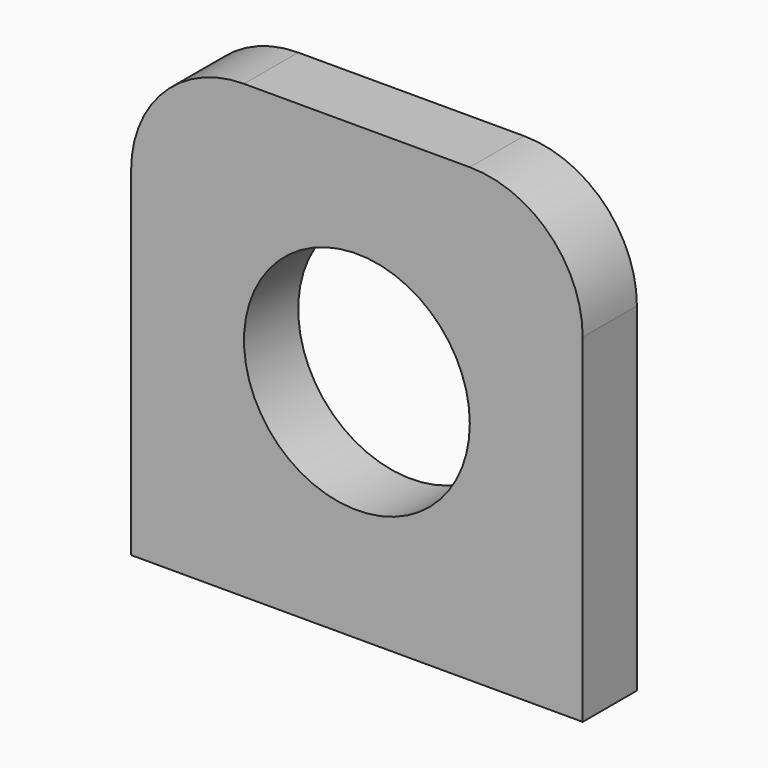
from build123d import *

# Parameters (mm, degrees)
F0_W     = 20
F0_H     = 20
F0_R     = 5
F1_DEPTH = 3
F2_R     = 5


with BuildPart() as f1:
    # F0 (on Front) → F1 (new body)
    with BuildSketch(Plane.XZ):
        Rectangle(F0_W, F0_H)
        Circle(F0_R, mode=Mode.SUBTRACT)
    extrude(amount=F1_DEPTH)

    # F2
    f2_edges = [f1.edges().sort_by_distance(p)[0] for p in [
        (10, -1.5, 10),
        (-10, -1.5, 10),
    ]]
    fillet(f2_edges, radius=F2_R)


solid = f1.part
